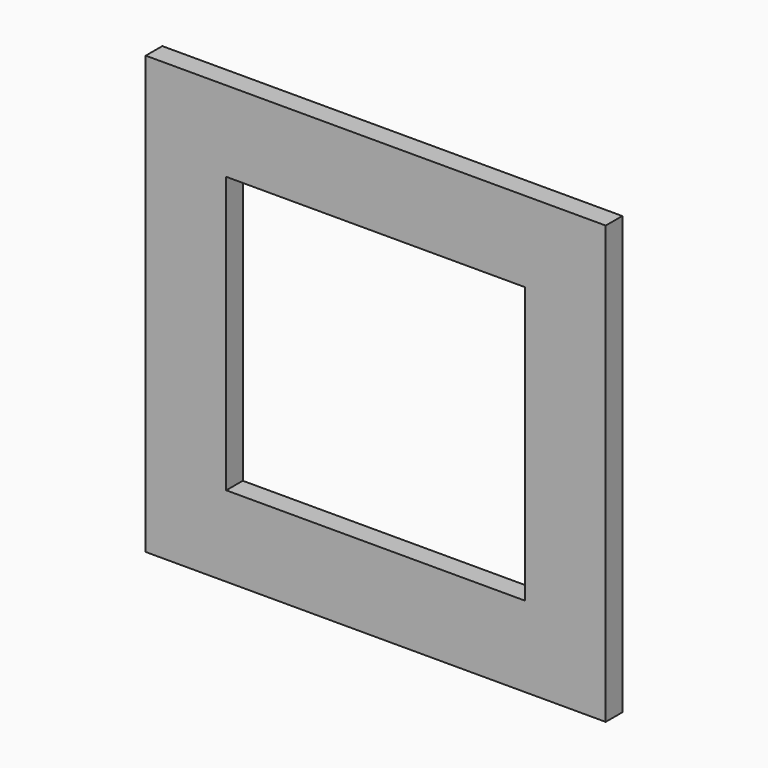
from build123d import *

# Parameters (mm, degrees)
F0_W     = 260
F0_H     = 70
F1_DEPTH = 18


with BuildPart() as f1:
    # F0 (on Front) → F1 (new body)
    with BuildSketch(Plane.XZ):
        Polygon((0, 380), (-70, 380), (-70, 0), (0, 0), (0, 70), (0, 310), align=None)
        with Locations((130, 345)):
            Rectangle(F0_W, F0_H)
        Polygon((330, 380), (260, 380), (260, 310), (260, 70), (260, 0), (330, 0), align=None)
        with Locations((130, 35)):
            Rectangle(F0_W, F0_H)
    extrude(amount=F1_DEPTH)


solid = f1.part
